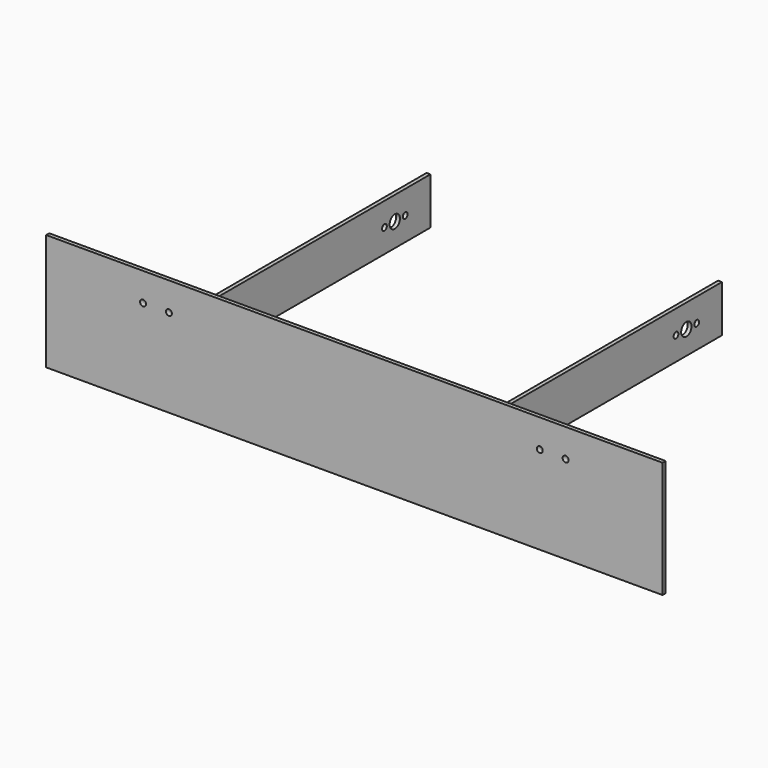
from build123d import *

# Parameters (mm, degrees)
F0_W     = 381
F0_H     = 72
F1_DEPTH = 2.38125
F2_W     = 65
F2_H     = 29
F3_DEPTH = 2.38125
F4_W     = 2.38125
F4_H     = 29
F5_DEPTH = 165.1
F6_R     = 1.85
F7_DEPTH = 25
F8_R     = 1.85
F8_R_2   = 4
F9_DEPTH = 293.97204


with BuildPart() as f1:
    # F0 (on Front) → F1 (new body)
    with BuildSketch(Plane.XZ):
        Rectangle(F0_W, F0_H)
    extrude(amount=F1_DEPTH)


with BuildPart() as f3:
    # F2 (on face) → F3 (new body)
    with BuildSketch(Plane(origin=(0, 0, 0), x_dir=(-1, 0, 0), z_dir=(0, 1, 0))):
        with Locations((-121.4, 18.5)):
            Rectangle(F2_W, F2_H)
        with Locations((121.4, 18.5)):
            Rectangle(F2_W, F2_H)
    extrude(amount=F3_DEPTH)

    # F4 (on face) → F5 (join)
    with BuildSketch(Plane(origin=(0, 2.38125, 0), x_dir=(-1, 0, 0), z_dir=(0, 1, 0))):
        with Locations((-90.090625, 18.5)):
            Rectangle(F4_W, F4_H)
        with Locations((90.090625, 18.5)):
            Rectangle(F4_W, F4_H)
    extrude(amount=F5_DEPTH)


with BuildPart() as f7_tool:
    # F6 (on face) → F7 (new body)
    with BuildSketch(Plane(origin=(0, 2.38125, 0), x_dir=(-1, 0, 0), z_dir=(0, 1, 0))):
        with Locations((-130.590625, 18.5)):
            Circle(F6_R)
        with Locations((-114.590625, 18.5)):
            Circle(F6_R)
        with Locations((130.590625, 18.5)):
            Circle(F6_R)
        with Locations((114.590625, 18.5)):
            Circle(F6_R)
    extrude(amount=-F7_DEPTH)


with BuildPart() as f1_1:
    add(f1.part)

    # F7: cut by f7_tool
    add(f7_tool.part, mode=Mode.SUBTRACT)


with BuildPart() as f3_1:
    add(f3.part)

    # F7: cut by f7_tool
    add(f7_tool.part, mode=Mode.SUBTRACT)

    # F8 (on face) → F9 (cut)
    with BuildSketch(Plane.YZ.offset(91.28125)):
        with Locations((148, 18.5)):
            Circle(F8_R)
        with Locations((132, 18.5)):
            Circle(F8_R)
        with Locations((140, 18.5)):
            Circle(F8_R_2)
    extrude(amount=-F9_DEPTH, mode=Mode.SUBTRACT)


solid = Compound([f1_1.part, f3_1.part])
